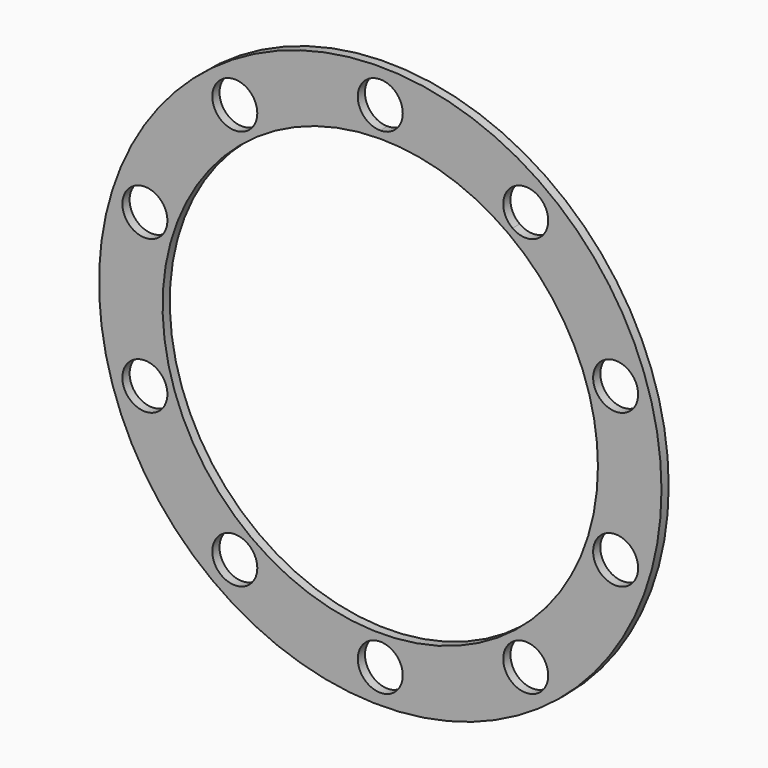
from build123d import *

# Parameters (mm, degrees)
F0_R     = 62.5
F0_R_2   = 5
F1_DEPTH = 1


with BuildPart() as f1:
    # F0 (on Front) → F1 (new body, symmetric)
    with BuildSketch(Plane.XZ):
        with BuildLine():
            ThreePointArc((5, 55), (-3.535534, 58.535534), (0, 50))
            ThreePointArc((0, 50), (3.535534, 51.464466), (5, 55))
        make_face()
        with BuildLine():
            ThreePointArc((37.328189, 44.495935), (30.058236, 48.950967), (29.389263, 40.45085))
            ThreePointArc((29.389263, 40.45085), (34.598141, 40.040902), (37.328189, 44.495935))
        make_face()
        Circle(F0_R)
        with Locations((-32.328189, -44.495935)):
            Circle(F0_R_2, mode=Mode.SUBTRACT)
        with Locations((-52.308108, -16.995935)):
            Circle(F0_R_2, mode=Mode.SUBTRACT)
        with Locations((0, -55)):
            Circle(F0_R_2, mode=Mode.SUBTRACT)
        with Locations((32.328189, -44.495935)):
            Circle(F0_R_2, mode=Mode.SUBTRACT)
        with Locations((52.308108, -16.995935)):
            Circle(F0_R_2, mode=Mode.SUBTRACT)
        with Locations((-52.308108, 16.995935)):
            Circle(F0_R_2, mode=Mode.SUBTRACT)
        with Locations((-32.328189, 44.495935)):
            Circle(F0_R_2, mode=Mode.SUBTRACT)
        with BuildLine():
            ThreePointArc((28.434292, 39.136446), (43.102714, 21.96193), (48.375307, 0))
            ThreePointArc((48.375307, 0), (-34.206508, -34.206508), (0, 48.375307))
            ThreePointArc((0, 48.375307), (14.948792, 46.007651), (28.434292, 39.136446))
        make_face(mode=Mode.SUBTRACT)
        with Locations((52.308108, 16.995935)):
            Circle(F0_R_2, mode=Mode.SUBTRACT)
        with BuildLine():
            ThreePointArc((5, 55), (3.535534, 51.464466), (0, 50))
            ThreePointArc((0, 50), (-3.535534, 58.535534), (5, 55))
        make_face(mode=Mode.SUBTRACT)
        with BuildLine():
            ThreePointArc((37.328189, 44.495935), (34.598141, 40.040902), (29.389263, 40.45085))
            ThreePointArc((29.389263, 40.45085), (30.058236, 48.950967), (37.328189, 44.495935))
        make_face(mode=Mode.SUBTRACT)
    extrude(amount=F1_DEPTH, both=True)


solid = f1.part
